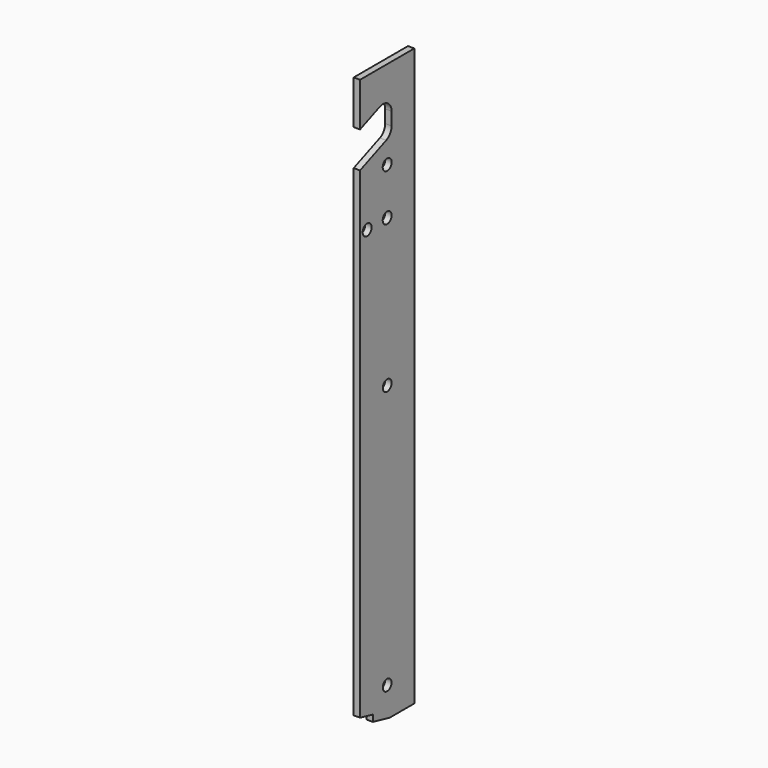
from build123d import *

# Parameters (mm, degrees)
F0_W          = 101.6
F0_H          = 863.6
F1_DEPTH      = 4.7625
F2_R          = 8.25
F3_DEPTH      = 9.526
F5_DEPTH      = 9.526
F6_R          = 16
F8_DEPTH      = 4.7635
F8_DEPTH_BACK = 4.7635
F10_D         = 16.75


with BuildPart() as f1:
    # F0 (on Right) → F1 (new body, symmetric)
    with BuildSketch(Plane.YZ):
        with Locations((50.8, 431.8)):
            Rectangle(F0_W, F0_H)
    extrude(amount=F1_DEPTH, both=True)

    # F2 (on face) → F3 (cut, through all)
    with BuildSketch(Plane(origin=(-4.7625, 0, 0), x_dir=(0, -1, 0), z_dir=(-1, 0, 0))):
        with Locations((-50.8, 45)):
            Circle(F2_R)
        with Locations((-50.8, 440)):
            Circle(F2_R)
    extrude(amount=-F3_DEPTH, mode=Mode.SUBTRACT)

    # F4 (on face) → F5 (cut, through all)
    with BuildSketch(Plane.YZ.offset(4.7625)):
        Polygon((59, 821.8375473243), (0, 798), (0, 744.0732628661), (59, 767.9108101904), align=None)
    extrude(amount=-F5_DEPTH, mode=Mode.SUBTRACT)

    # F6
    f6_edges = [f1.edges().sort_by_distance(p)[0] for p in [
        (0, 59, 767.91081),
        (0, 59, 821.837547),
    ]]
    fillet(f6_edges, radius=F6_R)

    # F7 (on Right) → F8 (cut, two sides)
    with BuildSketch(Plane.YZ) as f8_sk:
        Polygon((0, 22.540836587), (0, 0), (55.4036807783, 0), (24, 7.250110976), (24, 17), align=None)
    extrude(amount=-F8_DEPTH, mode=Mode.SUBTRACT)
    extrude(f8_sk.sketch, amount=F8_DEPTH_BACK, mode=Mode.SUBTRACT)

    # F10 (through all)
    with Locations(Plane.YZ.offset(4.7625)):
        with Locations((50.8, 731), (50.8, 661), (13.2422749771, 660.3641925713)):
            Hole(F10_D / 2)


solid = f1.part
